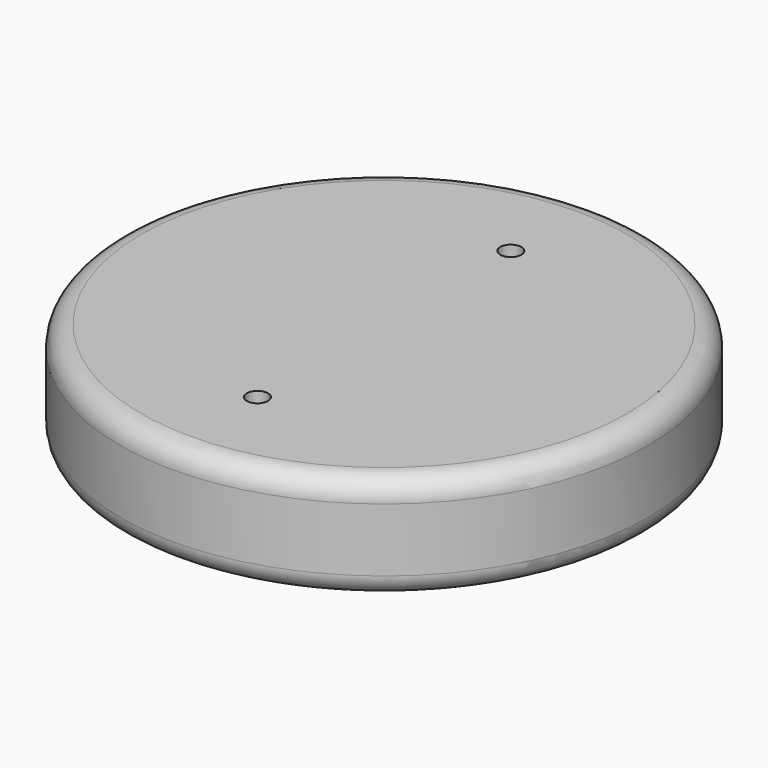
from build123d import *

# Parameters (mm, degrees)
F0_R           = 25
F1_DEPTH       = 10
F2_R           = 2
F4_D           = 2
F4_CBORE_D     = 5
F4_CBORE_DEPTH = 2.5


with BuildPart() as f1:
    # F0 (on Top) → F1 (new body)
    with BuildSketch(Plane.XY):
        Circle(F0_R)
    extrude(amount=F1_DEPTH)

    # F2
    f2_edges = [f1.edges().sort_by_distance(p)[0] for p in [
        (-25, 0, 10),
        (-25, 0, 0),
    ]]
    fillet(f2_edges, radius=F2_R)

    # F4 (through all)
    with Locations(Plane(origin=(0, 0, 0), x_dir=(1, 0, 0), z_dir=(0, 0, -1))):
        with Locations((0, 15), (0, -15)):
            CounterBoreHole(F4_D / 2, F4_CBORE_D / 2, F4_CBORE_DEPTH)


solid = f1.part
